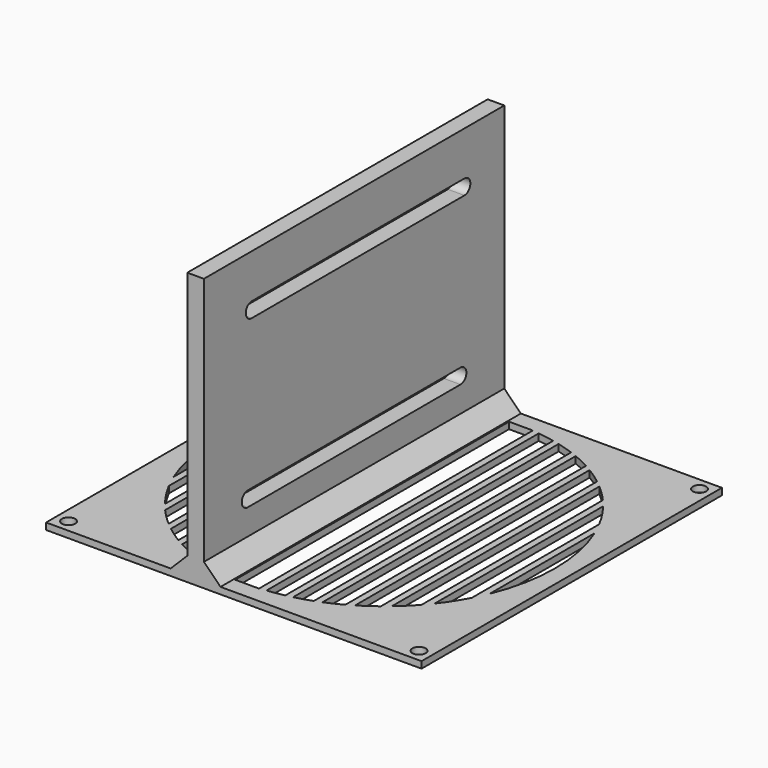
from build123d import *

# Parameters (mm, degrees)
F0_W     = 113
F0_H     = 113
F0_R     = 2
F0_W_2   = 7.1751601063
F0_H_2   = 103.030346334
F1_DEPTH = 2
F2_W     = 5
F2_H     = 113
F3_DEPTH = 80
F5_DEPTH = 25
F6_SIZE  = 5


with BuildPart() as f1:
    # F0 (on Top) → F1 (new body)
    with BuildSketch(Plane.XY):
        Rectangle(F0_W, F0_H)
        with Locations((-52.75, -52.75)):
            Circle(F0_R, mode=Mode.SUBTRACT)
        with BuildLine():
            ThreePointArc((-47.5875800531, -19.6893937105), (-51.5, 0), (-47.5875800531, 19.6893937105))
            Line((-47.5875800531, 19.6893937105), (-47.5875800531, -19.6893937105))
        make_face(mode=Mode.SUBTRACT)
        with Locations((52.75, -52.75)):
            Circle(F0_R, mode=Mode.SUBTRACT)
        with BuildLine():
            Line((45.5875800531, 23.9587675998), (45.5875800531, -23.9587675998))
            ThreePointArc((45.5875800531, -23.9587675998), (43.2610879903, -27.9415150967), (40.5875800531, -31.7001316311))
            Line((40.5875800531, -31.7001316311), (40.5875800531, 31.7001316311))
            ThreePointArc((40.5875800531, 31.7001316311), (43.2610879903, 27.9415150967), (45.5875800531, 23.9587675998))
        make_face(mode=Mode.SUBTRACT)
        with BuildLine():
            Line((-45.5875800531, -23.9587675998), (-45.5875800531, 23.9587675998))
            ThreePointArc((-45.5875800531, 23.9587675998), (-43.2610879903, 27.9415150967), (-40.5875800531, 31.7001316311))
            Line((-40.5875800531, 31.7001316311), (-40.5875800531, -31.7001316311))
            ThreePointArc((-40.5875800531, -31.7001316311), (-43.2610879903, -27.9415150967), (-45.5875800531, -23.9587675998))
        make_face(mode=Mode.SUBTRACT)
        with BuildLine():
            Line((-38.5875800531, -34.106431441), (-38.5875800531, 34.106431441))
            ThreePointArc((-38.5875800531, 34.106431441), (-36.1717921774, 36.6585794962), (-33.5875800531, 39.0400367082))
            Line((-33.5875800531, 39.0400367082), (-33.5875800531, -39.0400367082))
            ThreePointArc((-33.5875800531, -39.0400367082), (-36.1717921774, -36.6585794962), (-38.5875800531, -34.106431441))
        make_face(mode=Mode.SUBTRACT)
        with BuildLine():
            Line((-31.5875800531, -40.6752355419), (-31.5875800531, 40.6752355419))
            ThreePointArc((-31.5875800531, 40.6752355419), (-29.1381205687, 42.4643371516), (-26.5875800531, 44.1061286775))
            Line((-26.5875800531, 44.1061286775), (-26.5875800531, -44.1061286775))
            ThreePointArc((-26.5875800531, -44.1061286775), (-29.1381205687, -42.4643371516), (-31.5875800531, -40.6752355419))
        make_face(mode=Mode.SUBTRACT)
        with BuildLine():
            Line((-24.5875800531, -45.2515293347), (-24.5875800531, 45.2515293347))
            ThreePointArc((-24.5875800531, 45.2515293347), (-22.1195608355, 46.5077953513), (-19.5875800531, 47.6295780756))
            Line((-19.5875800531, 47.6295780756), (-19.5875800531, -47.6295780756))
            ThreePointArc((-19.5875800531, -47.6295780756), (-22.1195608355, -46.5077953513), (-24.5875800531, -45.2515293347))
        make_face(mode=Mode.SUBTRACT)
        with Locations((-52.75, 52.75)):
            Circle(F0_R, mode=Mode.SUBTRACT)
        Rectangle(F0_W_2, F0_H_2, mode=Mode.SUBTRACT)
        with BuildLine():
            Line((5.5875800531, -51.1959856742), (5.5875800531, 51.1959856742))
            ThreePointArc((5.5875800531, 51.1959856742), (8.0973684903, 50.8594398665), (10.5875800531, 50.3999320299))
            Line((10.5875800531, 50.3999320299), (10.5875800531, -50.3999320299))
            ThreePointArc((10.5875800531, -50.3999320299), (8.0973684903, -50.8594398665), (5.5875800531, -51.1959856742))
        make_face(mode=Mode.SUBTRACT)
        with BuildLine():
            Line((17.5875800531, 48.4037914618), (17.5875800531, -48.4037914618))
            ThreePointArc((17.5875800531, -48.4037914618), (15.1070683132, -49.2344034896), (12.5875800531, -49.9379898314))
            Line((12.5875800531, -49.9379898314), (12.5875800531, 49.9379898314))
            ThreePointArc((12.5875800531, 49.9379898314), (15.1070683132, 49.2344034896), (17.5875800531, 48.4037914618))
        make_face(mode=Mode.SUBTRACT)
        with BuildLine():
            Line((24.5875800531, 45.2515293347), (24.5875800531, -45.2515293347))
            ThreePointArc((24.5875800531, -45.2515293347), (22.1195608355, -46.5077953513), (19.5875800531, -47.6295780756))
            Line((19.5875800531, -47.6295780756), (19.5875800531, 47.6295780756))
            ThreePointArc((19.5875800531, 47.6295780756), (22.1195608355, 46.5077953513), (24.5875800531, 45.2515293347))
        make_face(mode=Mode.SUBTRACT)
        with BuildLine():
            Line((26.5875800531, -44.1061286775), (26.5875800531, 44.1061286775))
            ThreePointArc((26.5875800531, 44.1061286775), (29.1381205687, 42.4643371516), (31.5875800531, 40.6752355419))
            Line((31.5875800531, 40.6752355419), (31.5875800531, -40.6752355419))
            ThreePointArc((31.5875800531, -40.6752355419), (29.1381205687, -42.4643371516), (26.5875800531, -44.1061286775))
        make_face(mode=Mode.SUBTRACT)
        with BuildLine():
            Line((33.5875800531, -39.0400367082), (33.5875800531, 39.0400367082))
            ThreePointArc((33.5875800531, 39.0400367082), (36.1717921774, 36.6585794962), (38.5875800531, 34.106431441))
            Line((38.5875800531, 34.106431441), (38.5875800531, -34.106431441))
            ThreePointArc((38.5875800531, -34.106431441), (36.1717921774, -36.6585794962), (33.5875800531, -39.0400367082))
        make_face(mode=Mode.SUBTRACT)
        with BuildLine():
            Line((47.5875800531, -19.6893937105), (47.5875800531, 19.6893937105))
            ThreePointArc((47.5875800531, 19.6893937105), (51.5, 0), (47.5875800531, -19.6893937105))
        make_face(mode=Mode.SUBTRACT)
        with Locations((52.75, 52.75)):
            Circle(F0_R, mode=Mode.SUBTRACT)
    extrude(amount=F1_DEPTH)

    # F2 (on face) → F3 (join)
    with BuildSketch(Plane.XY.offset(2)):
        with Locations((-11.5047348663, 0)):
            Rectangle(F2_W, F2_H)
    extrude(amount=F3_DEPTH)

    # F4 (on face) → F5 (cut)
    with BuildSketch(Plane.YZ.offset(-9.0047348663)):
        with BuildLine():
            Line((-35.5, 19.25), (-40, 19.25))
            ThreePointArc((-40, 19.25), (-42.25, 17), (-40, 14.75))
            Line((-40, 14.75), (-35.5, 14.75))
            Line((-35.5, 14.75), (35.5, 14.75))
            Line((35.5, 14.75), (40, 14.75))
            ThreePointArc((40, 14.75), (42.25, 17), (40, 19.25))
            Line((40, 19.25), (35.5, 19.25))
            Line((35.5, 19.25), (-35.5, 19.25))
        make_face()
        with BuildLine():
            Line((-34.5, 68.75), (-38.5, 68.75))
            ThreePointArc((-38.5, 68.75), (-40.75, 66.5), (-38.5, 64.25))
            Line((-38.5, 64.25), (-34.5, 64.25))
            Line((-34.5, 64.25), (34.5, 64.25))
            Line((34.5, 64.25), (41.5, 64.25))
            ThreePointArc((41.5, 64.25), (43.75, 66.5), (41.5, 68.75))
            Line((41.5, 68.75), (34.5, 68.75))
            Line((34.5, 68.75), (-34.5, 68.75))
        make_face()
    extrude(amount=-F5_DEPTH, mode=Mode.SUBTRACT)

    # F6
    f6_edges = [f1.edges().sort_by_distance(p)[0] for p in [
        (-9.004735, 0, 2),
        (-14.004735, 0, 2),
    ]]
    chamfer(f6_edges, length=F6_SIZE)


solid = f1.part
